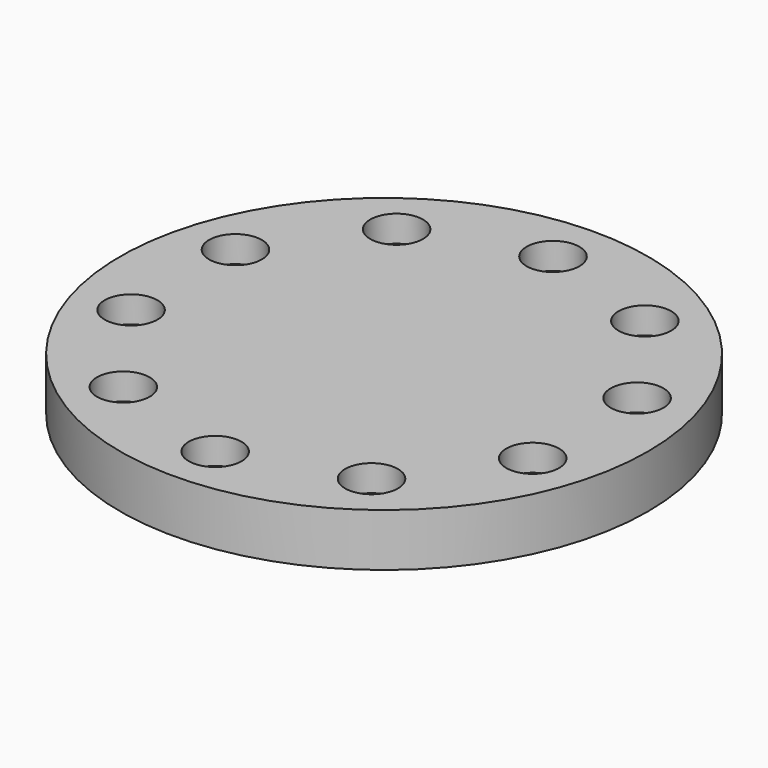
from build123d import *

# Parameters (mm, degrees)
SKETCH_R           = 50
PAD_DEPTH          = 10
SKETCH001_R        = 5
POCKET_DEPTH       = 5
POLARPATTERN_COUNT = 10


with BuildPart() as part:
    # Sketch → Pad (new body)
    with BuildSketch(Plane.XY):
        Circle(SKETCH_R)
    extrude(amount=PAD_DEPTH)

    # Sketch001 (on Face3 of Pad) → Pocket (cut)
    with BuildSketch(Plane.XY.offset(10)):
        with Locations((0, 40)):
            Circle(SKETCH001_R)
    pocket = extrude(amount=-POCKET_DEPTH, mode=Mode.SUBTRACT)

    # PolarPattern: Pocket ×10 about axis
    polarpattern_axis = Axis((0, 0, 0), (0, 0, 1))
    for i in range(1, POLARPATTERN_COUNT):
        add(pocket.rotate(polarpattern_axis, i * 360 / POLARPATTERN_COUNT), mode=Mode.SUBTRACT)


solid = part.part
